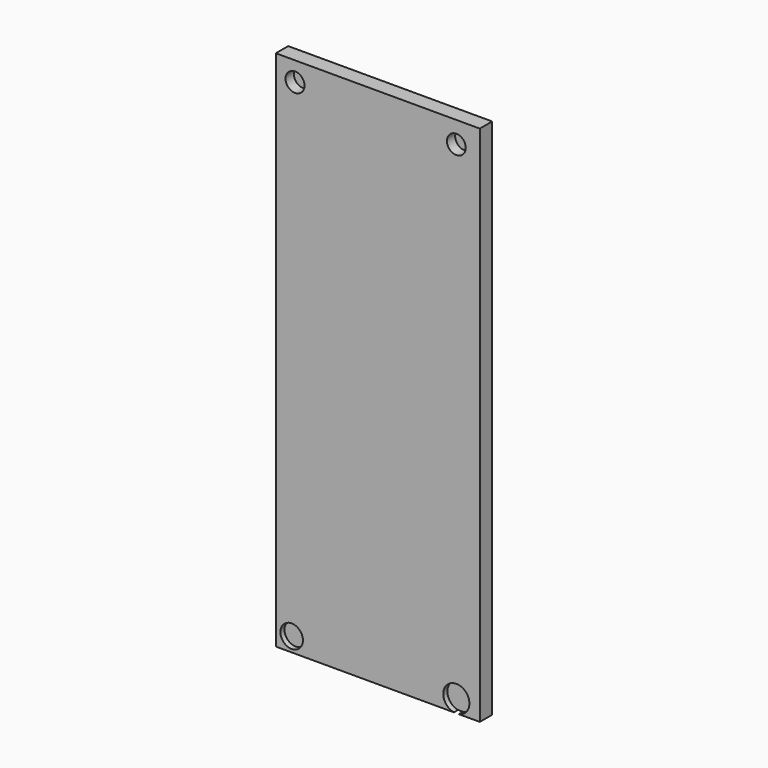
from build123d import *

# Parameters (mm, degrees)
F0_W     = 64.5491797477
F0_H     = 101.2704968452
F1_DEPTH = 2.5
F2_DEPTH = 2
F3_R     = 1.8369615549
F3_R_2   = 2.1624343972
F4_DEPTH = 2
F5_DEPTH = 25
F6_R     = 1.8265653587
F7_DEPTH = 2
F8_R     = 2.1849451914
F9_DEPTH = 1


with BuildPart() as f1:
    # F0 (on Front) → F1 (new body, symmetric)
    with BuildSketch(Plane.XZ):
        with Locations((-2.7254102752, -4.0163956583)):
            Rectangle(F0_W, F0_H)
    extrude(amount=F1_DEPTH, both=True)

    # F2 (cut): a face of the model
    f2_faces = [f1.faces().sort_by_distance(p)[0] for p in [
        (-2.7254102752, -2.5, -4.0163956583),
    ]]
    extrude(f2_faces, amount=-F2_DEPTH, mode=Mode.SUBTRACT)

    # F3 (on face) → F4 (cut)
    with BuildSketch(Plane.XZ.offset(0.5)):
        with Locations((-31.2704928219, 42.8893454373)):
            Circle(F3_R)
        with Locations((24.9330345541, 42.5505004823)):
            Circle(F3_R_2)
    extrude(amount=-F4_DEPTH, mode=Mode.SUBTRACT)

    # F5 (cut): a face of the model
    f5_faces = [f1.faces().sort_by_distance(p)[0] for p in [
        (29.5491795987, 1, -4.0163956583),
    ]]
    extrude(f5_faces, amount=-F5_DEPTH, mode=Mode.SUBTRACT)

    # F6 (on face) → F7 (cut)
    with BuildSketch(Plane.XZ.offset(0.5)):
        with Locations((0, 42.4377880991)):
            Circle(F6_R)
    extrude(amount=-F7_DEPTH, mode=Mode.SUBTRACT)

    # F8 (on face) → F9 (cut, symmetric)
    with BuildSketch(Plane.XZ.offset(0.5)):
        with Locations((-31.927973032, -51.87997967)):
            Circle(F8_R)
        with BuildLine():
            ThreePointArc((0.4676342261, -54.6516440809), (1.9501898117, -53.7791984525), (2.5340613246, -52.1611049771))
            ThreePointArc((2.5340613246, -52.1611049771), (-1.6180934754, -50.2109151655), (-0.4676342261, -54.6516440809))
            Line((-0.4676342261, -54.6516440809), (0.4676342261, -54.6516440809))
        make_face()
    extrude(amount=F9_DEPTH, both=True, mode=Mode.SUBTRACT)


solid = f1.part
